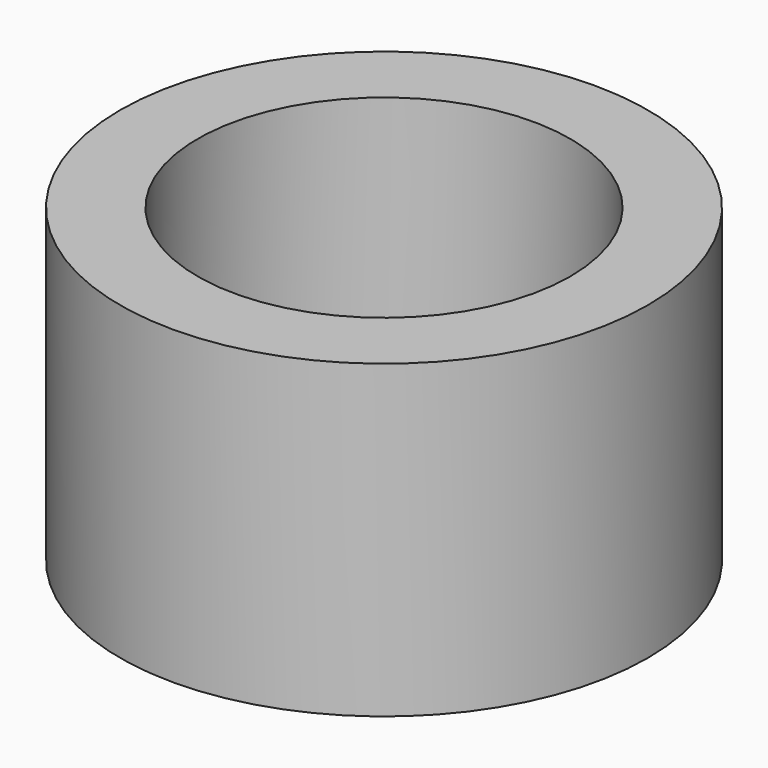
from build123d import *

# Parameters (mm, degrees)
CYLINDER_R        = 3.6
CYLINDER_DEPTH    = 4
CYLINDER001_R     = 5.1
CYLINDER001_DEPTH = 6


with BuildPart() as cylinder:
    # Cylinder → Cylinder (new body)
    with BuildSketch(Plane.XY.offset(2)):
        Circle(CYLINDER_R)
    extrude(amount=CYLINDER_DEPTH)


with BuildPart() as cut:
    # Cylinder001 → Cylinder001 (new body)
    with BuildSketch(Plane.XY):
        Circle(CYLINDER001_R)
    extrude(amount=CYLINDER001_DEPTH)

    # Cut: cut Cylinder
    add(cylinder.part, mode=Mode.SUBTRACT)


solid = cut.part
